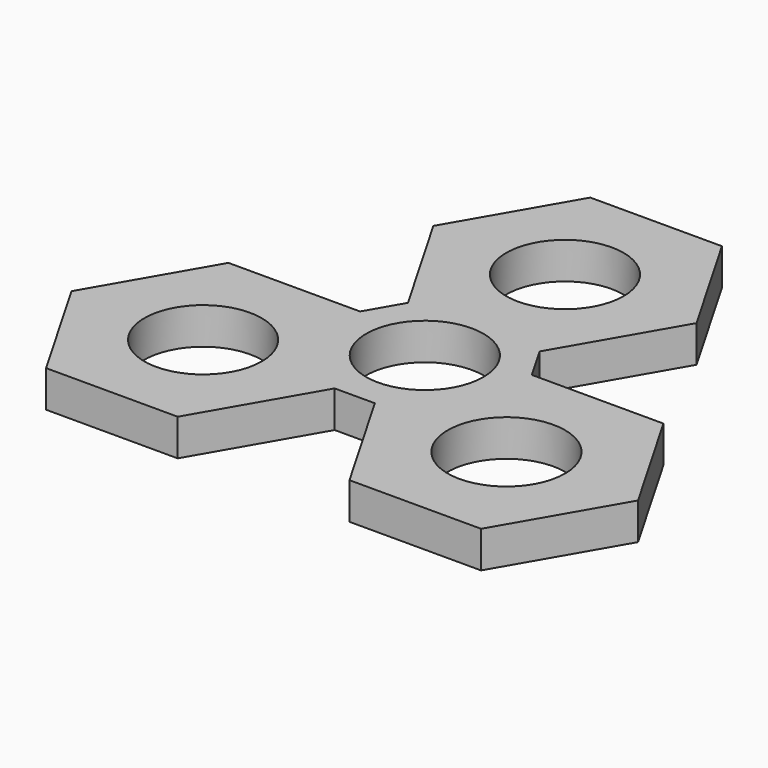
from build123d import *

# Parameters (mm, degrees)
F0_R     = 11.2
F1_DEPTH = 7


with BuildPart() as f1:
    # F0 (on Top) → F1 (new body)
    with BuildSketch(Plane.XY):
        Polygon((12.562245, 55.19774), (-12.562245, 55.19774), (-25.12449, 33.439294), (-12.562245, 11.680847), (-16.397033, 5.0388), (-41.521523, 5.0388), (-54.083768, -16.719647), (-41.521523, -38.478093), (-16.397033, -38.478093), (-3.834788, -16.719647), (3.834788, -16.719647), (16.397033, -38.478093), (41.521523, -38.478093), (54.083768, -16.719647), (41.521523, 5.0388), (16.397033, 5.0388), (12.562245, 11.680847), (25.12449, 33.439294), align=None)
        with Locations((-28.959278, -16.719647)):
            Circle(F0_R, mode=Mode.SUBTRACT)
        with Locations((28.959278, -16.719647)):
            Circle(F0_R, mode=Mode.SUBTRACT)
        Circle(F0_R, mode=Mode.SUBTRACT)
        with Locations((0, 33.439294)):
            Circle(F0_R, mode=Mode.SUBTRACT)
    extrude(amount=F1_DEPTH)


solid = f1.part
